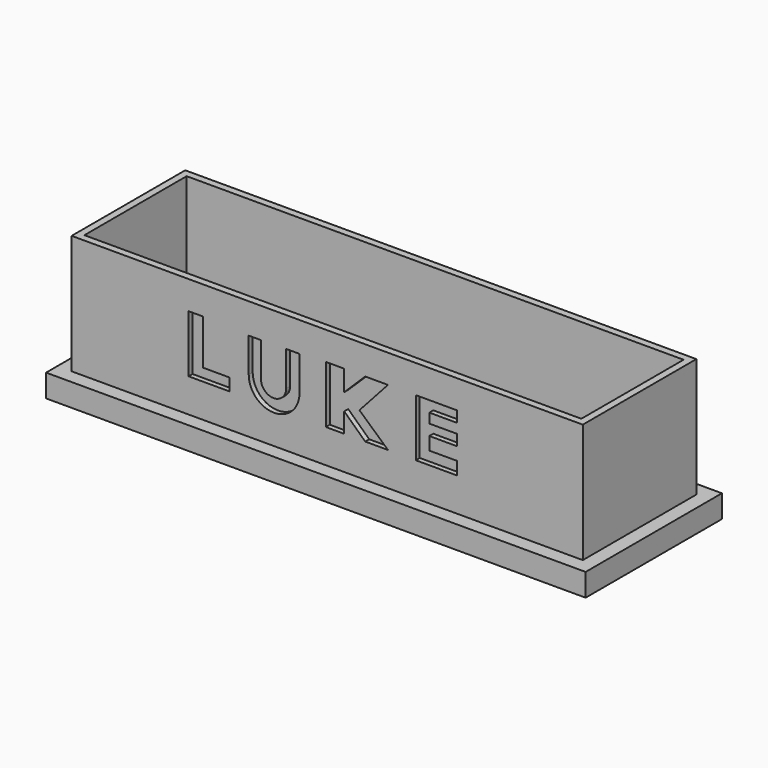
from build123d import *

# Parameters (mm, degrees)
F0_W     = 180
F0_H     = 50
F1_DEPTH = 50
F2_T     = -2.5
F0_W_2   = 190
F0_H_2   = 60
F3_DEPTH = 8
F5_DEPTH = 1.75


with BuildPart() as f1:
    # F0 (on Top) → F1 (new body)
    with BuildSketch(Plane.XY):
        with Locations((42.104505, 8.436477)):
            Rectangle(F0_W, F0_H)
    extrude(amount=F1_DEPTH)

    # F2
    f2_openings = [f1.faces().sort_by_distance(p)[0] for p in [
        (42.104505, 8.436477, 50),
    ]]
    offset(amount=F2_T, openings=f2_openings)

    # F0 (on Top) → F3 (join)
    with BuildSketch(Plane.XY):
        with Locations((42.104505, 8.436477)):
            Rectangle(F0_W_2, F0_H_2)
        with Locations((42.104505, 8.436477)):
            Rectangle(F0_W, F0_H, mode=Mode.SUBTRACT)
    extrude(amount=F3_DEPTH)

    # F4 (on face) → F5 (cut)
    with BuildSketch(Plane.XZ.offset(16.563523)):
        with BuildLine():
            Line((18.778705, 27.266525), (18.778705, 39.354309))
            Line((18.778705, 39.354309), (14.466432, 39.354309))
            Line((14.466432, 39.354309), (14.466432, 27.266525))
            ThreePointArc((14.466432, 27.266525), (23.398135, 18.334822), (32.329838, 27.266525))
            Line((32.329838, 27.266525), (32.329838, 39.507348))
            Line((32.329838, 39.507348), (27.672919, 39.507348))
            Line((27.672919, 39.507348), (27.672919, 27.266525))
            ThreePointArc((27.672919, 27.266525), (23.225812, 22.819418), (18.778705, 27.266525))
        make_face()
        Polygon((-1.653947, 40.034065), (-6.702017, 40.034065), (-6.702017, 19.841794), (7.721034, 19.841794), (7.721034, 24.168709), (-1.653947, 24.168709), align=None)
        Polygon((48.105575, 40.034065), (41.615201, 40.034065), (41.615201, 19.841794), (48.105575, 19.841794), (48.105575, 26.812933), (55.495456, 19.841794), (63.49016, 19.841794), (53.456086, 28.907086), (63.49016, 40.013472), (55.495456, 40.013472), (48.105575, 32.753399), align=None)
        Polygon((87.829128, 40.034065), (73.290575, 40.034065), (73.290575, 19.841794), (87.829128, 19.841794), (87.829128, 24.375837), (78.053206, 24.375837), (78.053206, 28.907086), (87.829128, 28.907086), (87.829128, 32.753399), (78.053206, 32.753399), (78.053206, 36.157073), (87.829128, 36.157073), align=None)
    extrude(amount=-F5_DEPTH, mode=Mode.SUBTRACT)


solid = f1.part
